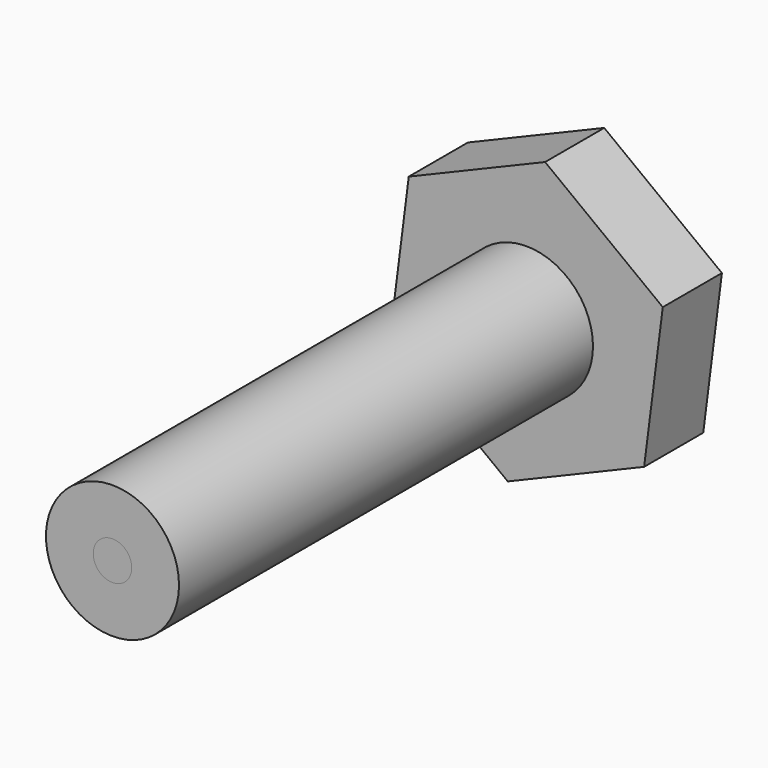
from build123d import *

# Parameters (mm, degrees)
F1_DEPTH = 12.7
F2_R     = 11.43
F3_DEPTH = 101.6
F4_R     = 3.308684
F5_DEPTH = 101.6


with BuildPart() as f1:
    # F0 (on Front) → F1 (new body)
    with BuildSketch(Plane.XZ):
        Polygon((3.205024, 25.19698), (-20.218713, 15.374123), (-23.423737, -9.822858), (-3.205024, -25.19698), (20.218713, -15.374123), (23.423737, 9.822858), align=None)
    extrude(amount=F1_DEPTH)

    # F2 (on Front) → F3 (join)
    with BuildSketch(Plane.XZ):
        Circle(F2_R)
    extrude(amount=F3_DEPTH)


with BuildPart() as f5:
    # F4 (on Front) → F5 (new body)
    with BuildSketch(Plane.XZ):
        Circle(F4_R)
    extrude(amount=F5_DEPTH)


solid = Compound([f1.part, f5.part])
